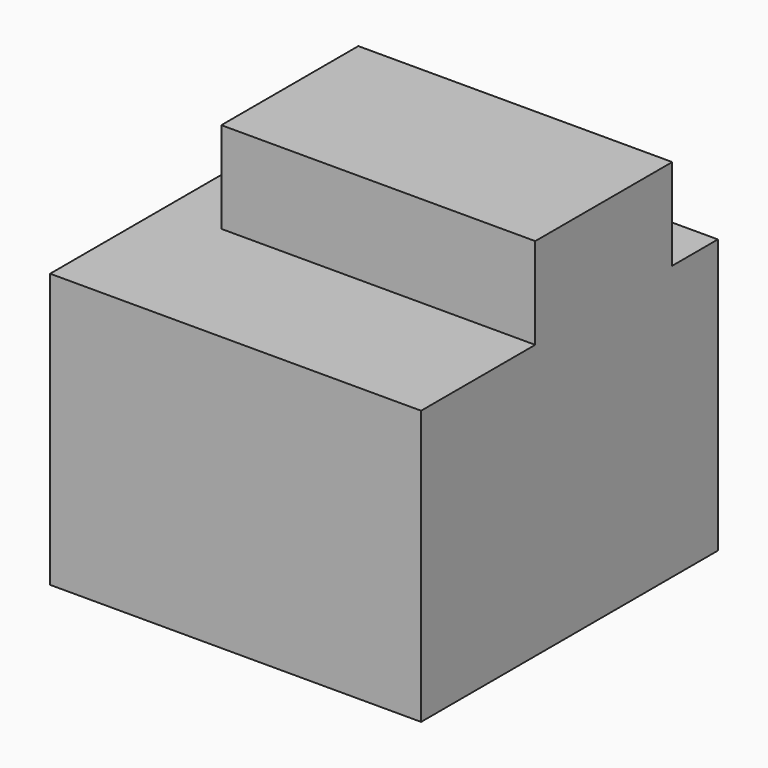
from build123d import *

# Parameters (mm, degrees)
F0_W     = 82.55
F0_H     = 82.55
F1_DEPTH = 60.96
F3_W     = 69.85
F3_H     = 38.1
F4_DEPTH = 20.32


with BuildPart() as f1:
    # F0 (on Top) → F1 (new body)
    with BuildSketch(Plane.XY):
        Rectangle(F0_W, F0_H)
    extrude(amount=F1_DEPTH)

    # F3 (on offset) → F4 (join)
    with BuildSketch(Plane.XY.offset(60.96)):
        with Locations((6.35, 9.525)):
            Rectangle(F3_W, F3_H)
    extrude(amount=F4_DEPTH)


solid = f1.part
